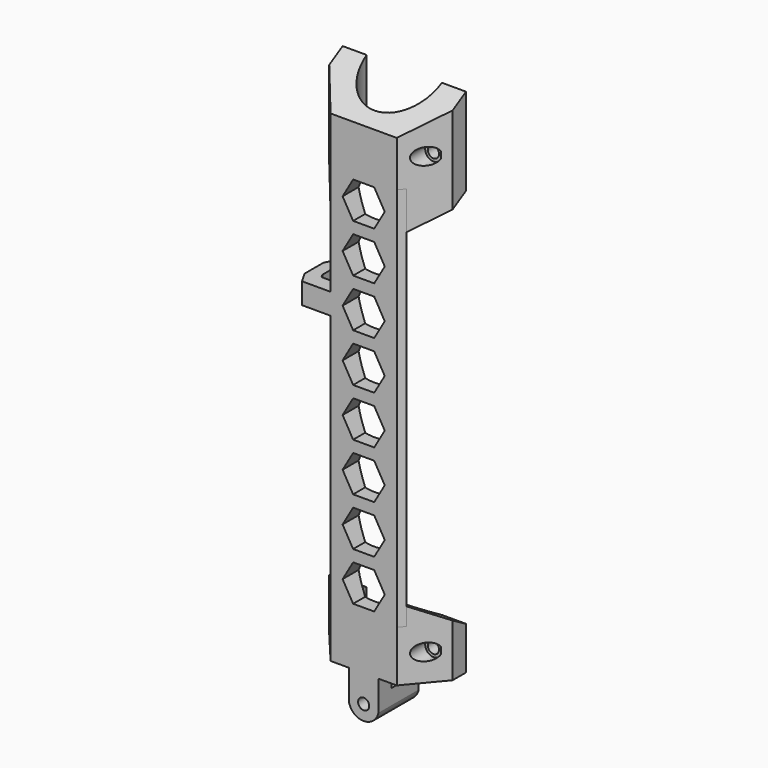
from build123d import *

# Parameters (mm, degrees)
SKETCH218_AS_DRAWN_R                    = 1.85
EXTRUDE136003_DEPTH                     = 20
EXTRUDE136003_ONTO_SKETCH218_ROLL_ANGLE = 90
EXTRUDE136010_DEPTH                     = 50
SKETCH221_AS_DRAWN_R                    = 2.75
EXTRUDE136006_DEPTH                     = 9
EXTRUDE136006_ONTO_SKETCH221_ROLL_ANGLE = 90
SKETCH220_AS_DRAWN_R                    = 1.85
EXTRUDE136005_DEPTH                     = 20
EXTRUDE136005_ONTO_SKETCH220_ROLL_ANGLE = 90
EXTRUDE136004_DEPTH                     = 38
EXTRUDE136011_DEPTH                     = 50
SKETCH224_AS_DRAWN_R                    = 2.75
EXTRUDE136009_DEPTH                     = 9
EXTRUDE136009_ONTO_SKETCH224_ROLL_ANGLE = 90
SKETCH223_AS_DRAWN_R                    = 1.85
EXTRUDE136008_DEPTH                     = 20
EXTRUDE136008_ONTO_SKETCH223_ROLL_ANGLE = 90
EXTRUDE136007_DEPTH                     = 24
EXTRUDE136012_DEPTH                     = 14
SKETCH227_W                             = 9.75
SKETCH227_H                             = 16.75
EXTRUDE136013_DEPTH                     = 9
EXTRUDE136014_DEPTH                     = 7
EXTRUDE136002_DEPTH                     = 128


with BuildPart() as extrude136003:
    # Sketch218 as drawn → Extrude136003 (new)
    with BuildSketch(Plane.XY):
        with Locations((0, -9)):
            Circle(SKETCH218_AS_DRAWN_R)
        Polygon((3.5, 19.187822), (7, 25.25), (3.5, 31.312178), (-3.5, 31.312178), (-7, 25.25), (-3.5, 19.187822), align=None)
        Polygon((3.5, 35.187822), (7, 41.25), (3.5, 47.312178), (-3.5, 47.312178), (-7, 41.25), (-3.5, 35.187822), align=None)
        Polygon((3.5, 51.187822), (7, 57.25), (3.5, 63.312178), (-3.5, 63.312178), (-7, 57.25), (-3.5, 51.187822), align=None)
        Polygon((3.5, 67.187822), (7, 73.25), (3.5, 79.312178), (-3.5, 79.312178), (-7, 73.25), (-3.5, 67.187822), align=None)
        Polygon((3.5, 83.187822), (7, 89.25), (3.5, 95.312178), (-3.5, 95.312178), (-7, 89.25), (-3.5, 83.187822), align=None)
        Polygon((3.5, 99.187822), (7, 105.25), (3.5, 111.312178), (-3.5, 111.312178), (-7, 105.25), (-3.5, 99.187822), align=None)
        Polygon((3.5, 115.187822), (7, 121.25), (3.5, 127.312178), (-3.5, 127.312178), (-7, 121.25), (-3.5, 115.187822), align=None)
        Polygon((3.5, 131.187822), (7, 137.25), (3.5, 143.312178), (-3.5, 143.312178), (-7, 137.25), (-3.5, 131.187822), align=None)
        with BuildLine():
            Line((5, -8.999981), (5, -15.999981))
            Line((5, -15.999981), (-5, -15.999981))
            Line((-5, -15.999981), (-5, -8.999981))
            ThreePointArc((-5, -8.999981), (0, -14), (5, -8.999981))
        make_face()
    extrude(amount=-EXTRUDE136003_DEPTH)


with BuildPart() as extrude136003_1:
    # Extrude136003 onto Sketch218 roll: moved
    add(extrude136003.part.rotate(Axis((0, 0, 0), (1, 0, 0)), EXTRUDE136003_ONTO_SKETCH218_ROLL_ANGLE))


with BuildPart() as extrude136003_2:
    # Extrude136003 onto Sketch218 placement: moved
    add(extrude136003_1.part)


with BuildPart() as extrude136010:
    # Sketch225 → Extrude136010 (new body)
    with BuildSketch(Plane.YZ):
        Polygon((0, -9.814955), (17, 0), (17, -9.814955), align=None)
        Polygon((17, 29), (0, 19.185045), (0, 29), align=None)
    extrude(amount=EXTRUDE136010_DEPTH)


with BuildPart() as extrude136010_1:
    # Extrude136010 placement: moved
    add(extrude136010.part.moved(Location((-25, 0, 0))))


with BuildPart() as extrude136006:
    # Sketch221 as drawn → Extrude136006 (new)
    with BuildSketch(Plane.XY):
        with Locations((-16, 0)):
            Circle(SKETCH221_AS_DRAWN_R)
        with Locations((16, 0)):
            Circle(SKETCH221_AS_DRAWN_R)
    extrude(amount=-EXTRUDE136006_DEPTH)


with BuildPart() as extrude136006_1:
    # Extrude136006 onto Sketch221 roll: moved
    add(extrude136006.part.rotate(Axis((0, 0, 0), (1, 0, 0)), EXTRUDE136006_ONTO_SKETCH221_ROLL_ANGLE))


with BuildPart() as extrude136006_2:
    # Extrude136006 onto Sketch221 placement: moved
    add(extrude136006_1.part)


with BuildPart() as fusion034004041035:
    # Sketch220 as drawn → Extrude136005 (new)
    with BuildSketch(Plane.XY):
        with Locations((-16, 0)):
            Circle(SKETCH220_AS_DRAWN_R)
        with Locations((16, 0)):
            Circle(SKETCH220_AS_DRAWN_R)
    extrude(amount=-EXTRUDE136005_DEPTH)


with BuildPart() as fusion034004041035_1:
    # Extrude136005 onto Sketch220 roll: moved
    add(fusion034004041035.part.rotate(Axis((0, 0, 0), (1, 0, 0)), EXTRUDE136005_ONTO_SKETCH220_ROLL_ANGLE))


with BuildPart() as fusion034004041035_2:
    # Extrude136005 onto Sketch220 placement: moved
    add(fusion034004041035_1.part)

    # Fusion034004041033: union Extrude136006
    add(extrude136006_2.part)


with BuildPart() as fusion034004041035_3:
    # Fusion034004041033 placement: moved
    add(fusion034004041035_2.part.moved(Location((0, 0, 13))))

    # Fusion034004041035: union Extrude136010
    add(extrude136010_1.part)


with BuildPart() as cut009010006006004:
    # Sketch219 → Extrude136004 (new body)
    with BuildSketch(Plane.XY):
        with BuildLine():
            Line((-11, 0), (11, 0))
            Line((20.5, 11.321659), (11, 0))
            Line((20.5, 11.321659), (20.5, 16.890918))
            Line((20.5, 16.890918), (12.499524, 16.890918))
            ThreePointArc((-12.499524, 16.890918), (0, 4.5), (12.499524, 16.890918))
            Line((-20.5, 16.890918), (-12.499524, 16.890918))
            Line((-20.5, 11.321659), (-20.5, 16.890918))
            Line((-20.5, 11.321659), (-11, 0))
        make_face()
    extrude(amount=EXTRUDE136004_DEPTH)


with BuildPart() as cut009010006006004_1:
    # Extrude136004 placement: moved
    add(cut009010006006004.part.moved(Location((0, 0, -9))))

    # Cut009010006006004: cut Fusion034004041035
    add(fusion034004041035_3.part, mode=Mode.SUBTRACT)


with BuildPart() as cut009010006006004_2:
    # Cut009010006006004 placement: moved
    add(cut009010006006004_1.part.moved(Location((0, 0, 141))))


with BuildPart() as extrude136011:
    # Sketch226 → Extrude136011 (new body)
    with BuildSketch(Plane.YZ):
        Polygon((0, 24), (17, 24), (17, 14.185045), align=None)
    extrude(amount=EXTRUDE136011_DEPTH)


with BuildPart() as extrude136011_1:
    # Extrude136011 placement: moved
    add(extrude136011.part.moved(Location((-25, 0, 0))))


with BuildPart() as extrude136009:
    # Sketch224 as drawn → Extrude136009 (new)
    with BuildSketch(Plane.XY):
        with Locations((-16, 0)):
            Circle(SKETCH224_AS_DRAWN_R)
        with Locations((16, 0)):
            Circle(SKETCH224_AS_DRAWN_R)
    extrude(amount=-EXTRUDE136009_DEPTH)


with BuildPart() as extrude136009_1:
    # Extrude136009 onto Sketch224 roll: moved
    add(extrude136009.part.rotate(Axis((0, 0, 0), (1, 0, 0)), EXTRUDE136009_ONTO_SKETCH224_ROLL_ANGLE))


with BuildPart() as extrude136009_2:
    # Extrude136009 onto Sketch224 placement: moved
    add(extrude136009_1.part)


with BuildPart() as fusion034004041034:
    # Sketch223 as drawn → Extrude136008 (new)
    with BuildSketch(Plane.XY):
        with Locations((-16, 0)):
            Circle(SKETCH223_AS_DRAWN_R)
        with Locations((16, 0)):
            Circle(SKETCH223_AS_DRAWN_R)
    extrude(amount=-EXTRUDE136008_DEPTH)


with BuildPart() as fusion034004041034_1:
    # Extrude136008 onto Sketch223 roll: moved
    add(fusion034004041034.part.rotate(Axis((0, 0, 0), (1, 0, 0)), EXTRUDE136008_ONTO_SKETCH223_ROLL_ANGLE))


with BuildPart() as fusion034004041034_2:
    # Extrude136008 onto Sketch223 placement: moved
    add(fusion034004041034_1.part)

    # Fusion034004041034: union Extrude136009
    add(extrude136009_2.part)


with BuildPart() as fusion034004041034_3:
    # Fusion034004041034 placement: moved
    add(fusion034004041034_2.part.moved(Location((0, 0, 9))))


with BuildPart() as cut009010006006005:
    # Sketch222 → Extrude136007 (new body)
    with BuildSketch(Plane.XY):
        with BuildLine():
            Line((-11, 0), (11, 0))
            Line((20.5, 11.321659), (11, 0))
            Line((20.5, 11.321659), (20.5, 16.890918))
            Line((20.5, 16.890918), (12.499524, 16.890918))
            ThreePointArc((-12.499524, 16.890918), (0, 4.5), (12.499524, 16.890918))
            Line((-20.5, 16.890918), (-12.499524, 16.890918))
            Line((-20.5, 11.321659), (-20.5, 16.890918))
            Line((-20.5, 11.321659), (-11, 0))
        make_face()
    extrude(amount=EXTRUDE136007_DEPTH)

    # Cut009010006006003: cut Fusion034004041034
    add(fusion034004041034_3.part, mode=Mode.SUBTRACT)

    # Cut009010006006005: cut Extrude136011
    add(extrude136011_1.part, mode=Mode.SUBTRACT)


with BuildPart() as extrude136012:
    # Sketch199 → Extrude136012 (new body)
    with BuildSketch(Plane.XY):
        with BuildLine():
            Line((-4.875, 0), (4.875, 0))
            Line((4.875, 5.489814), (4.875, 0))
            ThreePointArc((-4.875, 5.489814), (0, 4.5), (4.875, 5.489814))
            Line((-4.875, 5.489814), (-4.875, 0))
        make_face()
    extrude(amount=-EXTRUDE136012_DEPTH)


with BuildPart() as extrude136013:
    # Sketch227 → Extrude136013 (new body)
    with BuildSketch(Plane.XY):
        with Locations((0, 8.375)):
            Rectangle(SKETCH227_W, SKETCH227_H)
    extrude(amount=-EXTRUDE136013_DEPTH)


with BuildPart() as extrude136013_1:
    # Extrude136013 placement: moved
    add(extrude136013.part.moved(Location((0, 0, -5))))


with BuildPart() as extrude136014:
    # Sketch228 → Extrude136014 (new body)
    with BuildSketch(Plane.XY):
        Polygon((0, 5), (0, 0), (-20.5, 0), (-22.665064, 3.75), (-22.665064, 11.75), (-20.5, 15.5), (-18, 15.5), (-18, 13), (-18.665064, 11.848076), (-18.665064, 6.151924), (-18, 5), align=None)
    extrude(amount=EXTRUDE136014_DEPTH)


with BuildPart() as extrude136014_1:
    # Extrude136014 placement: moved
    add(extrude136014.part.moved(Location((0, 0, 101))))


with BuildPart() as cut009010006006006:
    # Sketch217 → Extrude136002 (new body)
    with BuildSketch(Plane.XY):
        with BuildLine():
            Line((-11, 0), (11, 0))
            Line((11, 0), (12.678199, 2))
            Line((12.678199, 2), (7.609518, 7.083083))
            ThreePointArc((-7.609518, 7.083083), (0, 4.5), (7.609518, 7.083083))
            Line((-12.678199, 2), (-7.609518, 7.083083))
            Line((-11, 0), (-12.678199, 2))
        make_face()
    extrude(amount=EXTRUDE136002_DEPTH)


with BuildPart() as cut009010006006006_1:
    # Extrude136002 placement: moved
    add(cut009010006006006.part.moved(Location((0, 0, 17))))

    # Fusion034004041036: union Cut009010006006004, Cut009010006006005, Extrude136012, Extrude136013, Extrude136014
    add(cut009010006006004_2.part)
    add(cut009010006006005.part)
    add(extrude136012.part)
    add(extrude136013_1.part)
    add(extrude136014_1.part)

    # Cut009010006006006: cut Extrude136003
    add(extrude136003_2.part, mode=Mode.SUBTRACT)


solid = cut009010006006006_1.part
